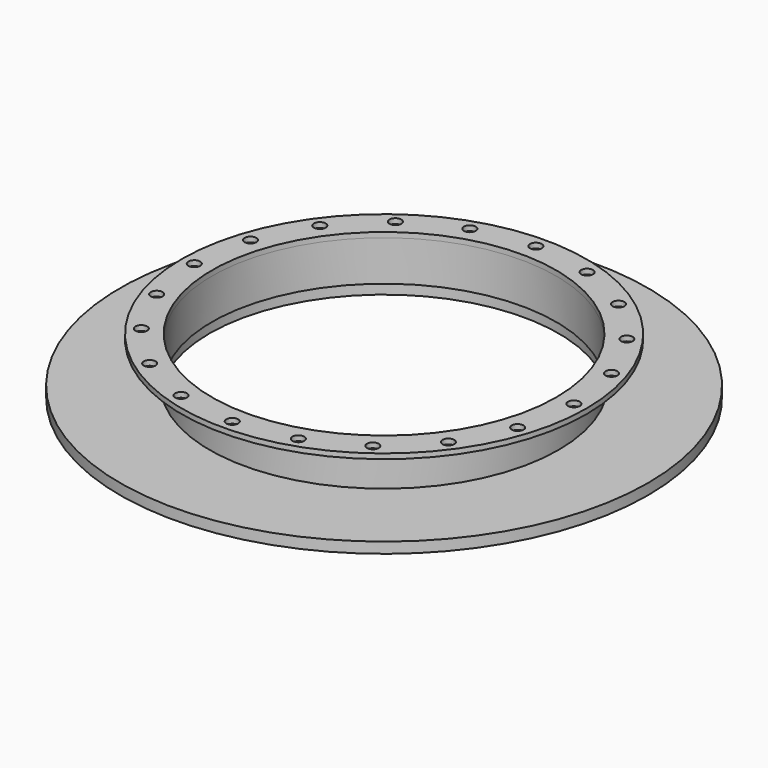
from build123d import *

# Parameters (mm, degrees)
F0_R     = 380.833613
F0_R_2   = 323.979701
F1_DEPTH = 9.525
F3_D     = 22.225
F4_R     = 328.402382
F4_R_2   = 324.079936
F5_DEPTH = 76.2
F6_R     = 496.782287
F6_R_2   = 328.402382
F7_DEPTH = 20.32


with BuildPart() as f1:
    # F0 (on Top) → F1 (new body)
    with BuildSketch(Plane.XY):
        Circle(F0_R)
        Circle(F0_R_2, mode=Mode.SUBTRACT)
    extrude(amount=F1_DEPTH)

    # F3 (through all)
    with Locations(Plane.XY.offset(9.525)):
        with Locations((-288.981302, 209.957205), (-339.717895, 110.381035), (-357.200533, 0), (-339.717895, -110.381035), (-288.981302, -209.957205), (-209.957205, -288.981302), (-110.381035, -339.717895), (0, -357.200533), (110.381035, -339.717895), (209.957205, -288.981302), (288.981302, -209.957205), (339.717895, -110.381035), (357.200533, 0), (339.717895, 110.381035), (288.981302, 209.957205), (209.957205, 288.981302), (110.381035, 339.717895), (0, 357.200533), (-110.381035, 339.717895), (-209.957205, 288.981302)):
            Hole(F3_D / 2)

    # F4 (on face) → F5 (join)
    with BuildSketch(Plane.XY):
        Circle(F4_R)
        Circle(F4_R_2, mode=Mode.SUBTRACT)
    extrude(amount=-F5_DEPTH)


with BuildPart() as f7:
    # F6 (on face) → F7 (new body)
    with BuildSketch(Plane(origin=(0, 0, -76.2), x_dir=(1, 0, 0), z_dir=(0, 0, -1))):
        Circle(F6_R)
        Circle(F6_R_2, mode=Mode.SUBTRACT)
    extrude(amount=F7_DEPTH)


solid = Compound([f1.part, f7.part])
